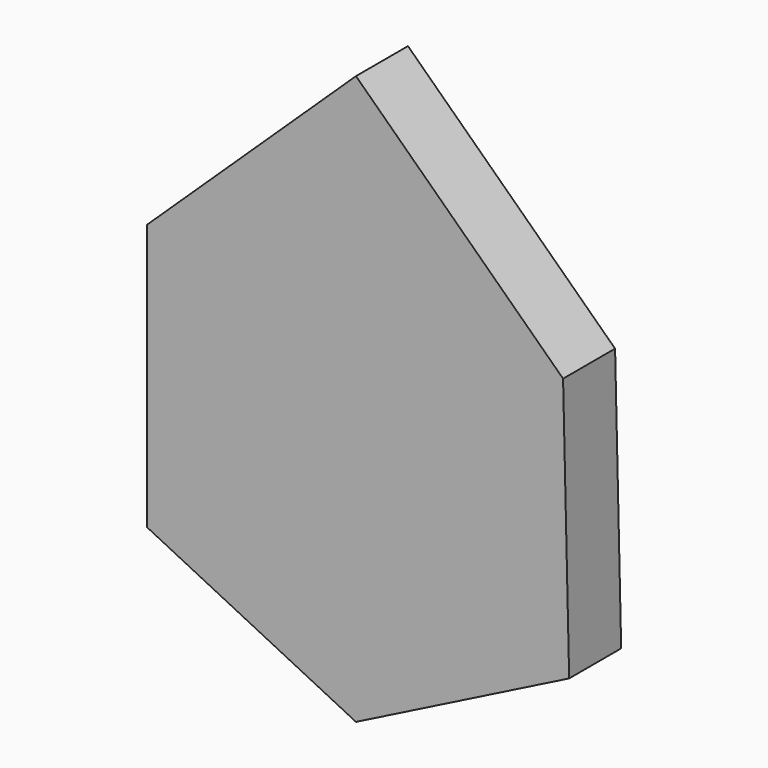
from build123d import *

# Parameters (mm, degrees)
F1_DEPTH = 12.7


with BuildPart() as f1:
    # F0 (on Front) → F1 (new body)
    with BuildSketch(Plane.XZ):
        Polygon((40.453546, 15.269228), (0, 54.136354), (-40.85014, 15.269228), align=None)
        Polygon((40.453546, 15.269228), (-40.85014, 15.269228), (-40.85014, -36.685806), (0, -56.912575), (41.643355, -35.892602), align=None)
    extrude(amount=F1_DEPTH)


solid = f1.part
